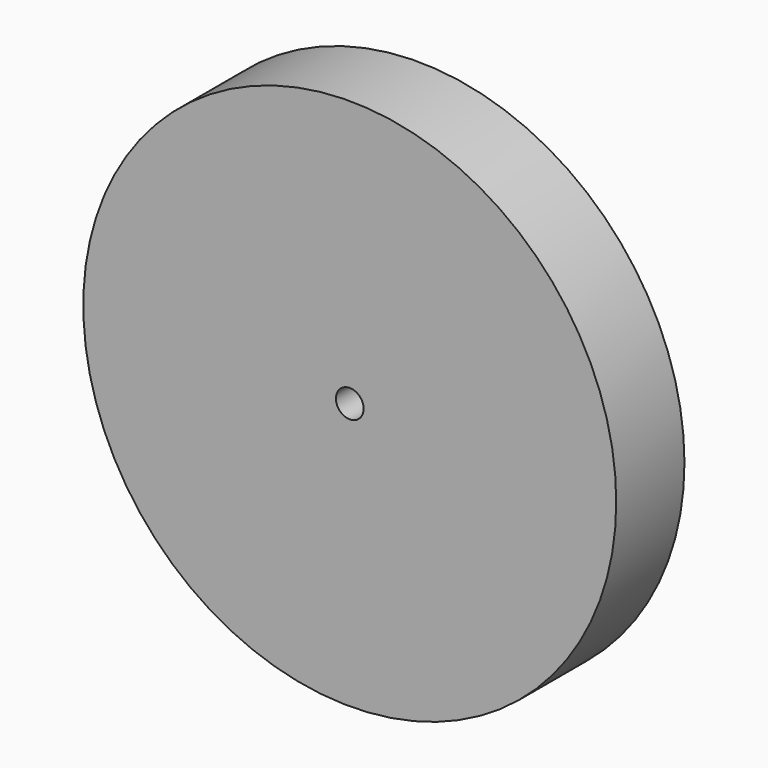
from build123d import *

# Parameters (mm, degrees)
F0_R     = 31.75
F0_R_2   = 1.651
F1_DEPTH = 10.16
F3_DEPTH = 5.08


with BuildPart() as f1:
    # F0 (on Front) → F1 (new body)
    with BuildSketch(Plane.XZ):
        Circle(F0_R)
        Circle(F0_R_2, mode=Mode.SUBTRACT)
    extrude(amount=F1_DEPTH)

    # F2 (on Front) → F3 (cut)
    with BuildSketch(Plane.XZ):
        with BuildLine():
            Line((0, 13.714062), (4.249023, 20.192205))
            ThreePointArc((4.249023, 20.192205), (-15.124809, 14.036363), (-19.819271, -5.742458))
            Line((-19.819271, -5.742458), (-13.714062, 0))
            ThreePointArc((-13.714062, 0), (-9.697307, 9.697307), (0, 13.714062))
        make_face()
        with BuildLine():
            ThreePointArc((13.714062, 0), (9.697307, -9.697307), (0, -13.714062))
            Line((0, -13.714062), (-2.821576, -20.440598))
            ThreePointArc((-2.821576, -20.440598), (17.210942, -11.382565), (17.705395, 10.59709))
            Line((17.705395, 10.59709), (13.714062, 0))
        make_face()
    extrude(amount=F3_DEPTH, mode=Mode.SUBTRACT)


solid = f1.part
